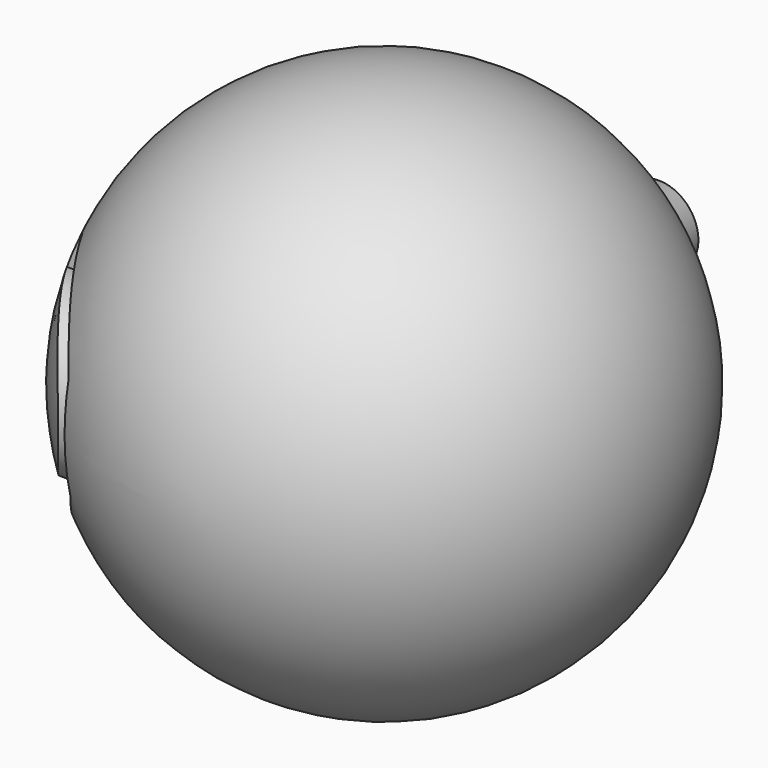
from build123d import *

# Parameters (mm, degrees)
F3_START = -25.4
F3_DEPTH = 25.4


with BuildPart() as f1:
    # F0 (on Top) → F1 (revolve)
    with BuildSketch(Plane.XY):
        with BuildLine():
            Line((-16.5278185159, 34.7225256264), (-18.9088614902, 27.0464420995))
            ThreePointArc((-18.9088614902, 27.0464420995), (-35.9881902425, 1.7401321328), (-13.0652571097, -18.4254804626))
            Line((-13.0652571097, -18.4254804626), (-13.0652571097, -15.401519835))
            ThreePointArc((-13.0652571097, -15.401519835), (-32.7346149928, 4.9584656954), (-13.0652571097, 25.3184512258))
            Line((-13.0652571097, 25.3184512258), (-13.0652571097, 34.7225256264))
            Line((-13.0652571097, 34.7225256264), (-16.5278185159, 34.7225256264))
        make_face()
    revolve(axis=Axis((-13.0652571097, -16.9135001488, 0), (0, 1, 0)))

    # F2 (on Right) → F3 (cut)
    with BuildSketch(Plane.YZ.offset(F3_START)):
        Polygon((8.7496358901, 3.7355690729), (17.1744562685, 9.0712914243), (8.7496358901, 13.5645279661), align=None)
        Polygon((5.098879803, -15.6415216625), (17.1744562685, -4.9700783566), (1.7289511161, -1.3193245977), align=None)
        with BuildLine():
            Line((-5.5725616403, 6.8246712908), (-5.5725616403, 9.9137714133))
            ThreePointArc((-5.5725616403, 9.9137714133), (-15.4044987002, -0.3345184387), (-5.2917334251, -10.3057976812))
            Line((-5.2917334251, -10.3057976812), (-5.2917334251, -6.9358726032))
            ThreePointArc((-5.2917334251, -6.9358726032), (-14.0271452397, -0.2310092653), (-5.5725616403, 6.8246712908))
        make_face()
    extrude(amount=-F3_DEPTH, mode=Mode.SUBTRACT)


solid = f1.part
